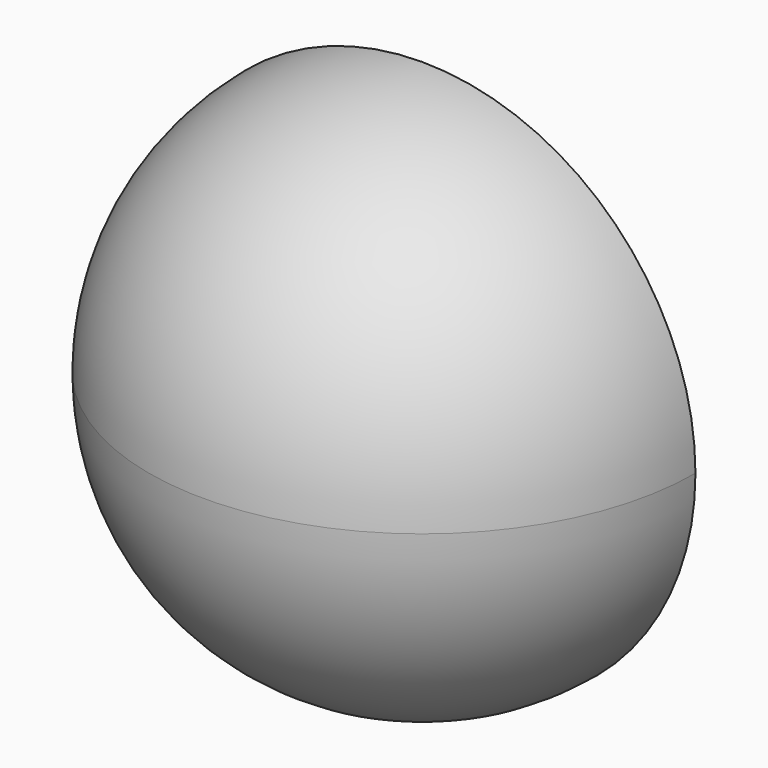
from build123d import *

# Parameters (mm, degrees)
F1_ANGLE_BACK = 90
F1_ANGLE      = 180


with BuildPart() as f1:
    # F0 (on Right) → F1 (revolve)
    with BuildSketch(Plane.YZ, mode=Mode.PRIVATE) as f1_sk:
        with BuildLine():
            ThreePointArc((0, 50.0792525709), (-35.4113790896, 35.4113790896), (-50.0792525709, 0))
            ThreePointArc((-50.0792525709, 0), (-35.4113790896, -35.4113790896), (0, -50.0792525709))
            Line((0, -50.0792525709), (0, 50.0792525709))
        make_face()
    revolve(f1_sk.sketch.rotate(Axis((0, 0, 0), (0, 0, -1)), -F1_ANGLE_BACK), axis=Axis((0, 0, 0), (0, 0, -1)), revolution_arc=F1_ANGLE)


solid = f1.part
